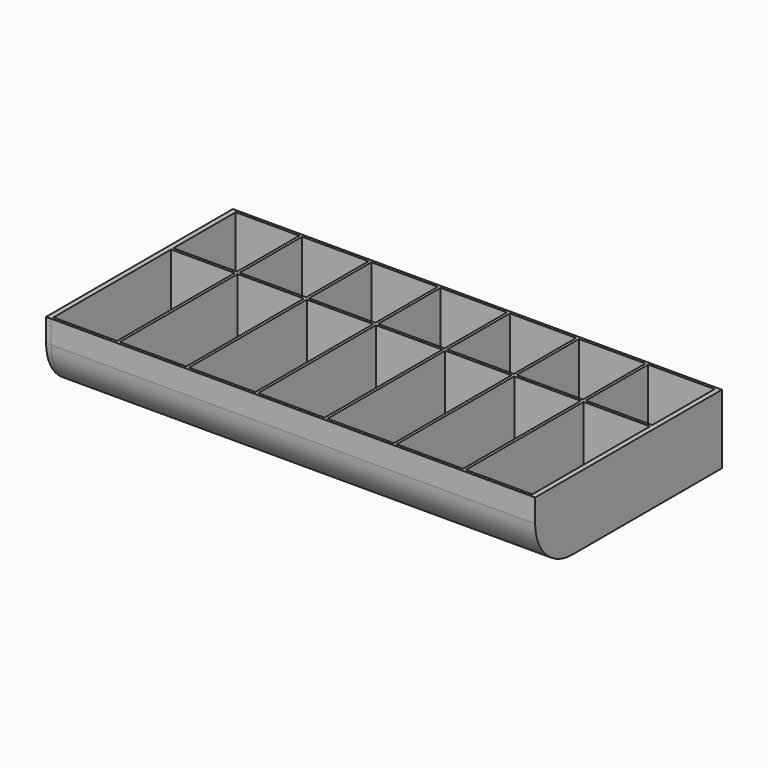
from build123d import *

# Parameters (mm, degrees)
F1_DEPTH      = 210
F3_DEPTH      = 1.2
F3_DEPTH_BACK = 1
F4_START      = 28.8
F4_DEPTH      = 1.2
F5_START      = 58.8
F5_DEPTH      = 1.2
F6_START      = 88.8
F6_DEPTH      = 1.2
F7_START      = 118.8
F7_DEPTH      = 1.2
F8_START      = 148.8
F8_DEPTH      = 1.2
F9_START      = 178.8
F9_DEPTH      = 1.2
F10_START     = 208.8
F10_DEPTH     = 2.2


with BuildPart() as f1:
    # F0 (on Right) → F1 (new body)
    with BuildSketch(Plane.YZ):
        with BuildLine():
            Line((-45, 0), (0, 0))
            Line((0, 0), (0, 1.2))
            Line((0, 1.2), (-45, 1.2))
            ThreePointArc((-45, 1.2), (-58.2936074863, 6.7063925137), (-63.8, 20))
            Line((-63.8, 20), (-63.8, 30))
            Line((-63.8, 30), (-65, 30))
            Line((-65, 30), (-65, 20))
            ThreePointArc((-65, 20), (-59.1421356237, 5.8578643763), (-45, 0))
        make_face()
        with BuildLine():
            Line((0, 1.2), (0, 0))
            Line((0, 0), (1.2, 0))
            Line((1.2, 0), (1.2, 13.1765111563))
            ThreePointArc((1.2, 13.1765111563), (0.3022843964, 16.5358983849), (0, 20))
            Line((0, 20), (0, 1.2))
        make_face()
        with BuildLine():
            Line((0, 30), (0, 20))
            ThreePointArc((0, 20), (0.3022843964, 16.5358983849), (1.2, 13.1765111563))
            ThreePointArc((1.2, 13.1765111563), (8.5211014656, 3.62212198), (20, 0))
            Line((20, 0), (35, 0))
            Line((35, 0), (35, 1.2))
            Line((35, 1.2), (20, 1.2))
            ThreePointArc((20, 1.2), (6.7063925137, 6.7063925137), (1.2, 20))
            Line((1.2, 20), (1.2, 30))
            Line((1.2, 30), (0, 30))
        make_face()
        Polygon((35, 1.2), (35, 0), (36.2, 0), (36.2, 30), (35, 30), align=None)
    extrude(amount=F1_DEPTH)

    # F2 (on Right) → F4 (join)
    with BuildSketch(Plane.YZ.offset(F4_START)):
        with BuildLine():
            Line((-65, 30), (-65, 20))
            ThreePointArc((-65, 20), (-59.1421356237, 5.8578643763), (-45, 0))
            Line((-45, 0), (36.2, 0))
            Line((36.2, 0), (36.2, 30))
            Line((36.2, 30), (-65, 30))
        make_face()
    extrude(amount=F4_DEPTH)

    # F2 (on Right) → F5 (join)
    with BuildSketch(Plane.YZ.offset(F5_START)):
        with BuildLine():
            Line((-65, 30), (-65, 20))
            ThreePointArc((-65, 20), (-59.1421356237, 5.8578643763), (-45, 0))
            Line((-45, 0), (36.2, 0))
            Line((36.2, 0), (36.2, 30))
            Line((36.2, 30), (-65, 30))
        make_face()
    extrude(amount=F5_DEPTH)

    # F2 (on Right) → F6 (join)
    with BuildSketch(Plane.YZ.offset(F6_START)):
        with BuildLine():
            Line((-65, 30), (-65, 20))
            ThreePointArc((-65, 20), (-59.1421356237, 5.8578643763), (-45, 0))
            Line((-45, 0), (36.2, 0))
            Line((36.2, 0), (36.2, 30))
            Line((36.2, 30), (-65, 30))
        make_face()
    extrude(amount=F6_DEPTH)

    # F2 (on Right) → F7 (join)
    with BuildSketch(Plane.YZ.offset(F7_START)):
        with BuildLine():
            Line((-65, 30), (-65, 20))
            ThreePointArc((-65, 20), (-59.1421356237, 5.8578643763), (-45, 0))
            Line((-45, 0), (36.2, 0))
            Line((36.2, 0), (36.2, 30))
            Line((36.2, 30), (-65, 30))
        make_face()
    extrude(amount=F7_DEPTH)

    # F2 (on Right) → F8 (join)
    with BuildSketch(Plane.YZ.offset(F8_START)):
        with BuildLine():
            Line((-65, 30), (-65, 20))
            ThreePointArc((-65, 20), (-59.1421356237, 5.8578643763), (-45, 0))
            Line((-45, 0), (36.2, 0))
            Line((36.2, 0), (36.2, 30))
            Line((36.2, 30), (-65, 30))
        make_face()
    extrude(amount=F8_DEPTH)

    # F2 (on Right) → F9 (join)
    with BuildSketch(Plane.YZ.offset(F9_START)):
        with BuildLine():
            Line((-65, 30), (-65, 20))
            ThreePointArc((-65, 20), (-59.1421356237, 5.8578643763), (-45, 0))
            Line((-45, 0), (36.2, 0))
            Line((36.2, 0), (36.2, 30))
            Line((36.2, 30), (-65, 30))
        make_face()
    extrude(amount=F9_DEPTH)

    # F2 (on Right) → F10 (join)
    with BuildSketch(Plane.YZ.offset(F10_START)):
        with BuildLine():
            Line((-65, 30), (-65, 20))
            ThreePointArc((-65, 20), (-59.1421356237, 5.8578643763), (-45, 0))
            Line((-45, 0), (36.2, 0))
            Line((36.2, 0), (36.2, 30))
            Line((36.2, 30), (-65, 30))
        make_face()
    extrude(amount=F10_DEPTH)


with BuildPart() as f3:
    # F2 (on Right) → F3 (new body, two sides)
    with BuildSketch(Plane.YZ) as f3_sk:
        with BuildLine():
            Line((-65, 30), (-65, 20))
            ThreePointArc((-65, 20), (-59.1421356237, 5.8578643763), (-45, 0))
            Line((-45, 0), (36.2, 0))
            Line((36.2, 0), (36.2, 30))
            Line((36.2, 30), (-65, 30))
        make_face()
    extrude(amount=F3_DEPTH)
    extrude(f3_sk.sketch, amount=-F3_DEPTH_BACK)


solid = Compound([f1.part, f3.part])
